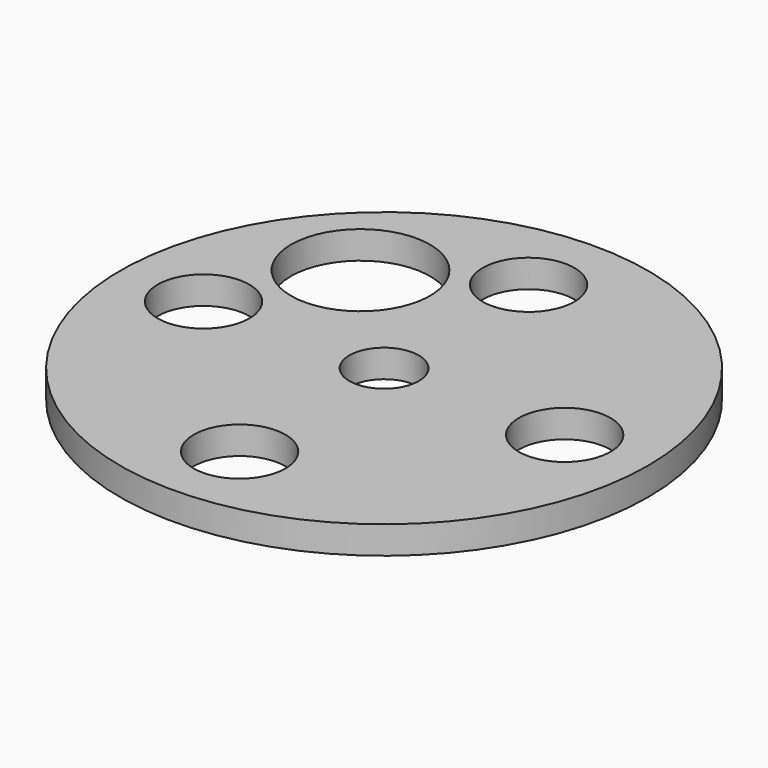
from build123d import *

# Parameters (mm, degrees)
F0_R     = 9.5
F1_DEPTH = 1
F2_D     = 3.3
F3_D     = 5
F4_D     = 2.5


with BuildPart() as f1:
    # F0 (on Top) → F1 (new body)
    with BuildSketch(Plane.XY):
        Circle(F0_R)
    extrude(amount=-F1_DEPTH)

    # F2 (through all)
    with Locations(Plane.XY):
        with Locations((0, 6.5), (-6.5, 0), (0, -6.5), (6.5, 0)):
            Hole(F2_D / 2)

    # F3 (through all)
    with Locations(Plane.XY):
        with Locations((-4.2426406871, 4.2426406871)):
            Hole(F3_D / 2)

    # F4 (through all)
    with Locations(Plane.XY):
        with Locations((0, 0)):
            Hole(F4_D / 2)


solid = f1.part
